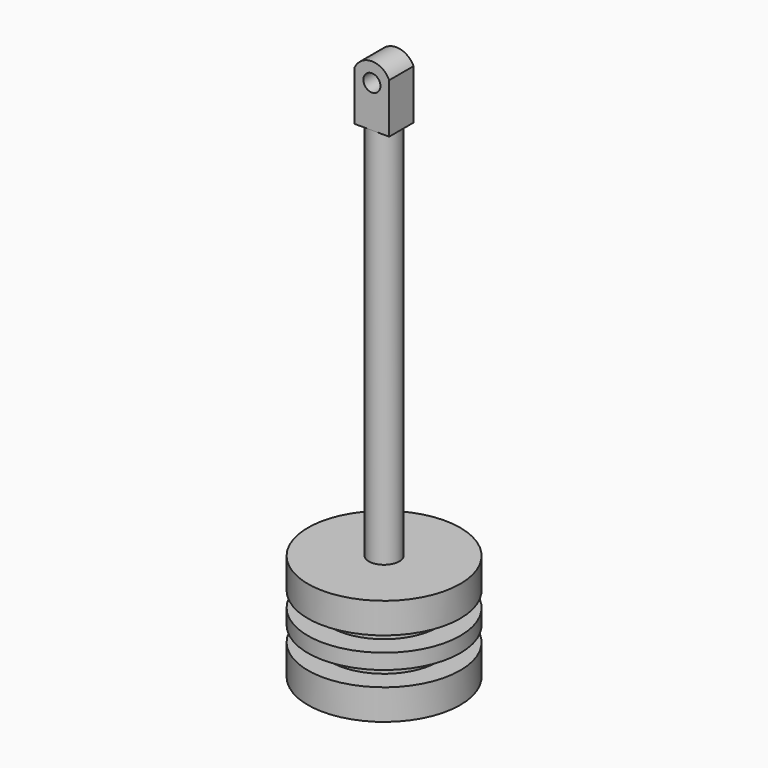
from build123d import *

# Parameters (mm, degrees)
F0_R      = 5
F1_DEPTH  = 2
F2_R      = 3.5
F3_DEPTH  = 1
F4_R      = 5
F4_R_2    = 3.5
F5_DEPTH  = 1
F6_R      = 3.5
F7_DEPTH  = 1
F8_R      = 5
F8_R_2    = 3.5
F9_DEPTH  = 2
F10_R     = 1
F11_DEPTH = 25
F13_DEPTH = 4
F15_DEPTH = 12.5
F16_R     = 0.5596686964
F17_DEPTH = 25


with BuildPart() as f1:
    # F0 (on Top) → F1 (new body)
    with BuildSketch(Plane.XY):
        Circle(F0_R)
    extrude(amount=F1_DEPTH)

    # F2 (on face) → F3 (join)
    with BuildSketch(Plane.XY.offset(2)):
        Circle(F2_R)
    extrude(amount=F3_DEPTH)

    # F4 (on face) → F5 (join)
    with BuildSketch(Plane.XY.offset(3)):
        Circle(F4_R)
        Circle(F4_R_2, mode=Mode.SUBTRACT)
        Circle(F4_R_2)
    extrude(amount=F5_DEPTH)

    # F6 (on face) → F7 (join)
    with BuildSketch(Plane.XY.offset(4)):
        Circle(F6_R)
    extrude(amount=F7_DEPTH)

    # F8 (on face) → F9 (join)
    with BuildSketch(Plane.XY.offset(5)):
        Circle(F8_R)
        Circle(F8_R_2, mode=Mode.SUBTRACT)
        Circle(F8_R_2)
    extrude(amount=F9_DEPTH)

    # F10 (on face) → F11 (join)
    with BuildSketch(Plane.XY.offset(7)):
        Circle(F10_R)
    extrude(amount=F11_DEPTH)

    # F12 (on face) → F13 (join)
    with BuildSketch(Plane.XY.offset(32)):
        with BuildLine():
            Line((1.1349343348, 1), (0, 1))
            ThreePointArc((0, 1), (0.7071067812, 0.7071067812), (1, 0))
            ThreePointArc((1, 0), (0.7071067812, -0.7071067812), (0, -1))
            Line((0, -1), (1.1349343348, -1))
            Line((1.1349343348, -1), (1.1349343348, 1))
        make_face()
        with BuildLine():
            Line((0, 1), (-1.1349343348, 1))
            Line((-1.1349343348, 1), (-1.1349343348, -1))
            Line((-1.1349343348, -1), (0, -1))
            ThreePointArc((0, -1), (-1, 0), (0, 1))
        make_face()
        with BuildLine():
            ThreePointArc((1, 0), (0.7071067812, 0.7071067812), (0, 1))
            ThreePointArc((0, 1), (-1, 0), (0, -1))
            ThreePointArc((0, -1), (0.7071067812, -0.7071067812), (1, 0))
        make_face()
    extrude(amount=F13_DEPTH)

    # F14 (on face) → F15 (intersect, symmetric)
    with BuildSketch(Plane.XZ.offset(1)):
        with BuildLine():
            Line((1.2498749086, 32), (1.2498749086, 34.7227233296))
            ThreePointArc((1.2498749086, 34.7227233296), (1.2227611454, 34.9999357877), (1.1349343348, 35.2642620149))
            Line((1.1349343348, 35.2642620149), (1.1349343348, 32))
            Line((1.1349343348, 32), (0, 32))
            Line((0, 32), (-1.1349343348, 32))
            Line((-1.1349343348, 32), (-11.0570155084, -1.4946558513))
            Line((-11.0570155084, -1.4946558513), (-0.2573039092, -3.1720956322))
            Line((-0.2573039092, -3.1720956322), (14.6179525182, 0.9926037164))
            Line((14.6179525182, 0.9926037164), (6.6368887201, 14.4441844895))
            Line((6.6368887201, 14.4441844895), (1.2498749086, 32))
        make_face()
        with BuildLine():
            Line((1.1349343348, 32), (1.1349343348, 35.2642620149))
            ThreePointArc((1.1349343348, 35.2642620149), (0, 35.9904070199), (-1.1349343348, 35.2642620149))
            Line((-1.1349343348, 35.2642620149), (-1.1349343348, 32))
            Line((-1.1349343348, 32), (0, 32))
            Line((0, 32), (1.1349343348, 32))
        make_face()
    extrude(amount=F15_DEPTH, both=True, mode=Mode.INTERSECT)

    # F16 (on face) → F17 (cut)
    with BuildSketch(Plane.XZ.offset(1)):
        with Locations((0, 34.7404070199)):
            Circle(F16_R)
    extrude(amount=-F17_DEPTH, mode=Mode.SUBTRACT)


solid = f1.part
